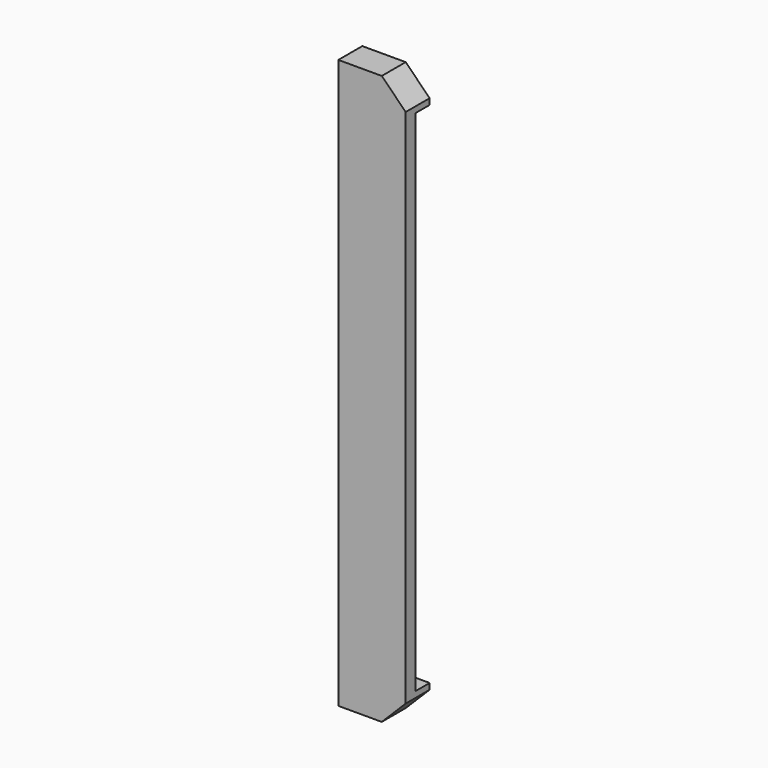
from build123d import *

# Parameters (mm, degrees)
SKETCH040_W      = 6
SKETCH040_H      = 34
EXTRUDE049_DEPTH = 2
EXTRUDE048_DEPTH = 2


with BuildPart() as extrude049:
    # Sketch040 → Extrude049 (new body)
    with BuildSketch(Plane.XZ.offset(4.5)):
        with Locations((-59, 12)):
            Rectangle(SKETCH040_W, SKETCH040_H)
    extrude(amount=-EXTRUDE049_DEPTH)


with BuildPart() as bulge_overlap:
    # Sketch039 → Extrude048 (new body)
    with BuildSketch(Plane.XZ.offset(5.3)):
        Polygon((-58, 31), (-56.4, 29.4), (-56.4, -5.4), (-58, -7), (-60.9, -7), (-60.9, 31), align=None)
    extrude(amount=-EXTRUDE048_DEPTH)

    # Cut027: cut Extrude049
    add(extrude049.part, mode=Mode.SUBTRACT)


with BuildPart() as bulge_overlap_1:
    # Cut027 placement: moved
    add(bulge_overlap.part.moved(Location((40, 0, 0))))


solid = bulge_overlap_1.part
